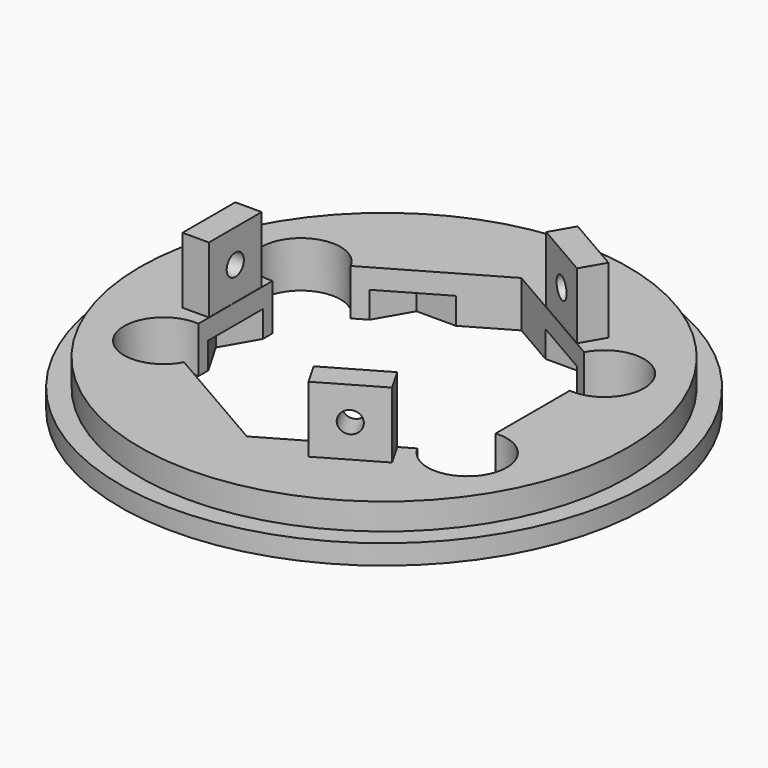
from build123d import *

# Parameters (mm, degrees)
SKETCH_R        = 40
PAD_DEPTH       = 3
SKETCH001_R     = 37
PAD001_DEPTH    = 4
POCKET_DEPTH    = 7.001
POCKET001_DEPTH = 4
SKETCH007_R     = 6
POCKET002_DEPTH = 7.001
SKETCH008_W     = 4
SKETCH008_H     = 10
PAD002_DEPTH    = 10
SKETCH009_R     = 1.625
POCKET003_DEPTH = 5
SKETCH010_R     = 1.625
POCKET004_DEPTH = 5
SKETCH011_R     = 1.625
POCKET005_DEPTH = 5


with BuildPart() as part:
    # Sketch → Pad (new body)
    with BuildSketch(Plane.XY):
        Circle(SKETCH_R)
    extrude(amount=PAD_DEPTH)

    # Sketch001 (on Face3 of Pad) → Pad001 (join)
    with BuildSketch(Plane.XY.offset(3)):
        Circle(SKETCH001_R)
    extrude(amount=PAD001_DEPTH)

    # Sketch002 (on Face5 of Pad001) → Pocket (cut, through all)
    with BuildSketch(Plane.XY.offset(7)):
        Polygon((22.5166604984, 13), (0, 26), (-22.5166604984, 13), (-22.5166604984, -13), (0, -26), (22.5166604984, -13), align=None)
    extrude(amount=-POCKET_DEPTH, mode=Mode.SUBTRACT)

    # Sketch006 (on Face2 of Pocket) → Pocket001 (cut)
    with BuildSketch(Plane(origin=(0, 0, 0), x_dir=(1, 0, 0), z_dir=(0, 0, -1))):
        Polygon((-12.75, 22.0836477965), (-25.5, 0), (-12.75, -22.0836477965), (12.75, -22.0836477965), (25.5, 0), (12.75, 22.0836477965), align=None)
    extrude(amount=-POCKET001_DEPTH, mode=Mode.SUBTRACT)

    # Sketch007 (on Face2 of Pocket001) → Pocket002 (cut, through all)
    with BuildSketch(Plane(origin=(0, 0, 0), x_dir=(1, 0, 0), z_dir=(0, 0, -1))):
        with Locations((23, 13)):
            Circle(SKETCH007_R)
        with Locations((23, -13)):
            Circle(SKETCH007_R)
        with Locations((-23, -13)):
            Circle(SKETCH007_R)
        with Locations((-23, 13)):
            Circle(SKETCH007_R)
    extrude(amount=-POCKET002_DEPTH, mode=Mode.SUBTRACT)

    # Sketch008 (on Face29 of Pocket002) → Pad002 (join)
    with BuildSketch(Plane.XY.offset(7)):
        with Locations((-24.55, 0)):
            Rectangle(SKETCH008_W, SKETCH008_H)
        Polygon((6.9460647141, 22.0309369975), (15.6063187519, 17.0309369975), (17.6063187519, 20.4950386126), (8.9460647141, 25.4950386126), align=None)
        Polygon((15.6063187519, -17.0309369975), (6.9460647141, -22.0309369975), (8.9460647141, -25.4950386126), (17.6063187519, -20.4950386126), align=None)
    extrude(amount=PAD002_DEPTH)

    # Sketch009 (on Face46 of Pad002) → Pocket003 (cut)
    with BuildSketch(Plane(origin=(13.276191733, 22.9950386126, 0), x_dir=(-0.8660254038, 0.5, 0), z_dir=(0.5, 0.8660254038, 0))):
        with Locations((0, 12)):
            Circle(SKETCH009_R)
    extrude(amount=-POCKET003_DEPTH, mode=Mode.SUBTRACT)

    # Sketch010 (on Face40 of Pocket003) → Pocket004 (cut)
    with BuildSketch(Plane(origin=(-26.55, 0, 0), x_dir=(0, -1, 0), z_dir=(-1, 0, 0))):
        with Locations((0, 12)):
            Circle(SKETCH010_R)
    extrude(amount=-POCKET004_DEPTH, mode=Mode.SUBTRACT)

    # Sketch011 (on Face38 of Pocket004) → Pocket005 (cut)
    with BuildSketch(Plane(origin=(13.276191733, -22.9950386126, 0), x_dir=(0.8660254038, 0.5, 0), z_dir=(0.5, -0.8660254038, 0))):
        with Locations((0, 12)):
            Circle(SKETCH011_R)
    extrude(amount=-POCKET005_DEPTH, mode=Mode.SUBTRACT)


solid = part.part
